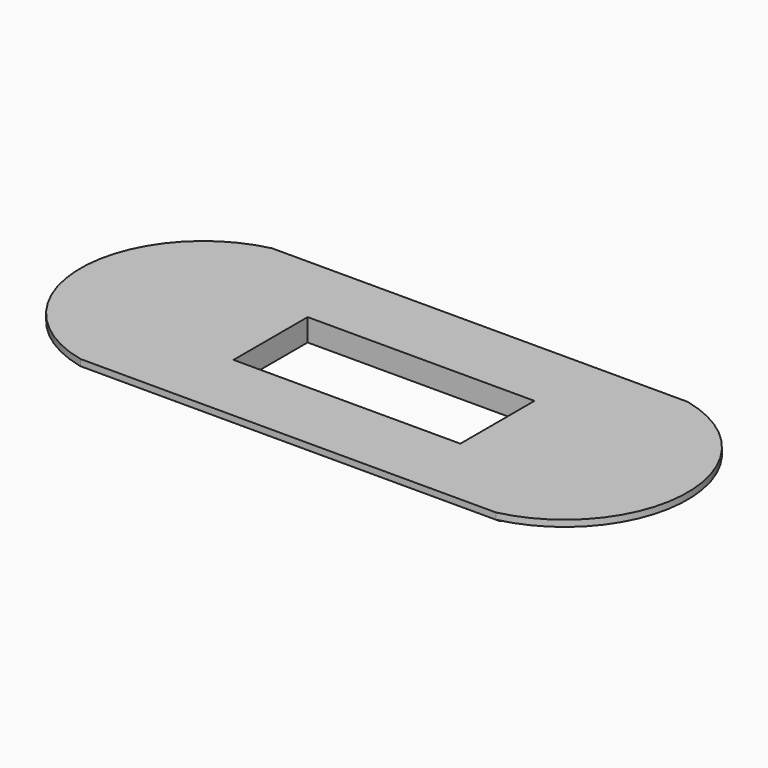
from build123d import *

# Parameters (mm, degrees)
F0_DEPTH = 2
F3_DEPTH = 5
F1_W     = 71
F1_H     = 29
F4_DEPTH = 7


with BuildPart() as f0:
    # F5 (on Top) → F0 (new body)
    with BuildSketch(Plane.XY):
        with BuildLine():
            Line((203.833783, 41.574535), (73.833783, 41.574535))
            ThreePointArc((73.833783, 41.574535), (43.833783, 4.074535), (73.833783, -33.425465))
            Line((73.833783, -33.425465), (203.833783, -33.425465))
            ThreePointArc((203.833783, -33.425465), (233.833783, 4.074535), (203.833783, 41.574535))
        make_face()
    extrude(amount=F0_DEPTH)

    # F2 (on face) → F3 (join)
    with BuildSketch(Plane.XY):
        with BuildLine():
            ThreePointArc((78.833783, 34.081681), (63.833783, 4.074535), (78.833783, -25.932611))
            Line((78.833783, -25.932611), (198.833783, -25.932611))
            ThreePointArc((198.833783, -25.932611), (213.833783, 4.074535), (198.833783, 34.081681))
            Line((198.833783, 34.081681), (78.833783, 34.081681))
        make_face()
    extrude(amount=-F3_DEPTH)

    # F1 (on face) → F4 (cut, through all)
    with BuildSketch(Plane.XY.offset(2)):
        with Locations((138.833783, 4.074535)):
            Rectangle(F1_W, F1_H)
    extrude(amount=-F4_DEPTH, mode=Mode.SUBTRACT)


solid = f0.part
